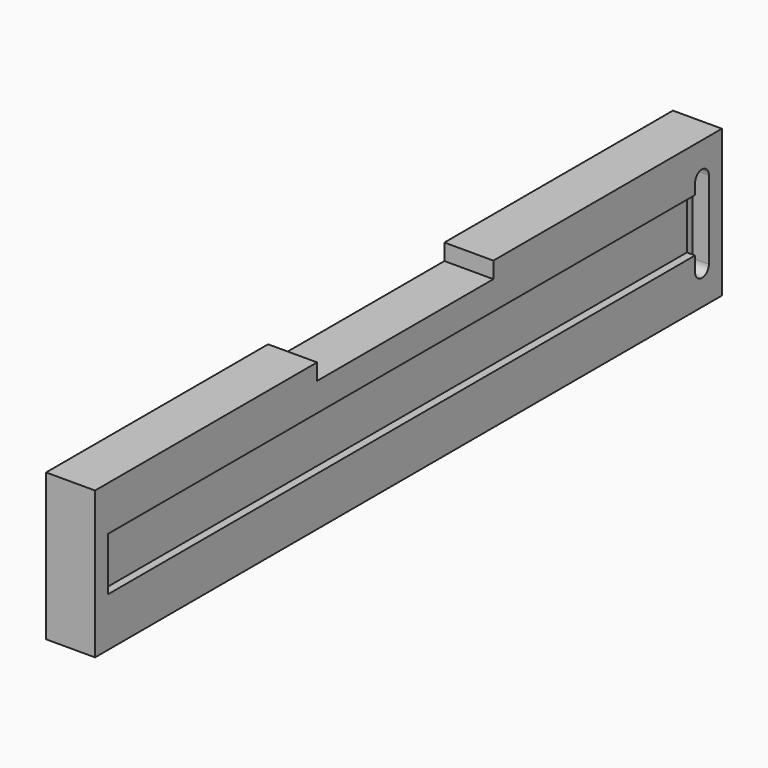
from build123d import *

# Parameters (mm, degrees)
F0_W     = 304.8
F0_H     = 57.15
F1_DEPTH = 19.05
F3_DEPTH = 6.35
F4_W     = 285.3944
F4_H     = 20.701
F5_DEPTH = 3.175
F6_W     = 85.725
F6_H     = 6.35
F7_DEPTH = 19.05


with BuildPart() as f1:
    # F0 (on Right) → F1 (new body)
    with BuildSketch(Plane.YZ):
        Rectangle(F0_W, F0_H)
    extrude(amount=F1_DEPTH)

    # F2 (on face) → F3 (cut)
    with BuildSketch(Plane.YZ.offset(19.05)):
        with BuildLine():
            ThreePointArc((146.05, 15.24), (142.6972, 18.5928), (139.3444, 15.24))
            Line((139.3444, 15.24), (139.3444, -15.2273))
            ThreePointArc((139.3444, -15.2273), (142.6972, -18.5801), (146.05, -15.2273))
            Line((146.05, -15.2273), (146.05, 15.24))
        make_face()
    extrude(amount=-F3_DEPTH, mode=Mode.SUBTRACT)

    # F4 (on face) → F5 (cut)
    with BuildSketch(Plane.YZ.offset(19.05)):
        with Locations((-3.3528, 0.8255)):
            Rectangle(F4_W, F4_H)
    extrude(amount=-F5_DEPTH, mode=Mode.SUBTRACT)

    # F6 (on face) → F7 (cut, through all)
    with BuildSketch(Plane.YZ.offset(19.05)):
        with Locations((-1.5875, 25.4)):
            Rectangle(F6_W, F6_H)
    extrude(amount=-F7_DEPTH, mode=Mode.SUBTRACT)


solid = f1.part
